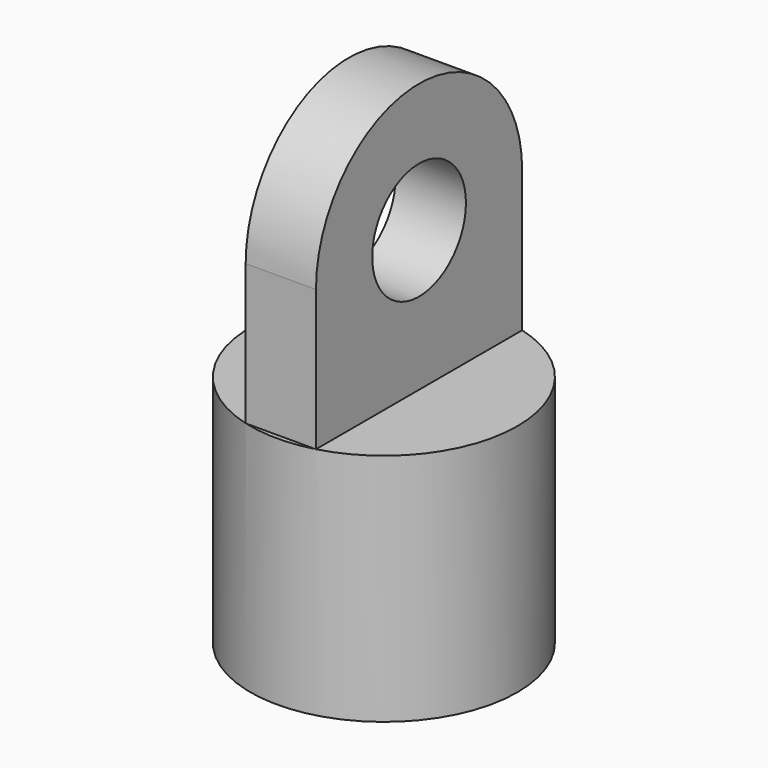
from build123d import *

# Parameters (mm, degrees)
F0_R          = 2.5
F1_DEPTH      = 1.5
F1_DEPTH_BACK = 1.5
F3_DEPTH      = 2
F2_R          = 5.7
F2_R_2        = 4.2
F4_DEPTH      = 10


with BuildPart() as f1:
    # F0 (on Right) → F1 (new body, two sides)
    with BuildSketch(Plane.YZ) as f1_sk:
        with BuildLine():
            ThreePointArc((-5.5, 0), (0, -5.5), (5.5, 0))
            ThreePointArc((5.5, 0), (0, 5.5), (-5.5, 0))
        make_face()
        Circle(F0_R, mode=Mode.SUBTRACT)
        with BuildLine():
            Line((5.5, -6), (5.5, 0))
            ThreePointArc((5.5, 0), (0, -5.5), (-5.5, 0))
            Line((-5.5, 0), (-5.5, -6))
            Line((-5.5, -6), (5.5, -6))
        make_face()
    extrude(amount=F1_DEPTH)
    extrude(f1_sk.sketch, amount=-F1_DEPTH_BACK)

    # F2 (on face) → F3 (join)
    with BuildSketch(Plane(origin=(0, 0, -6), x_dir=(1, 0, 0), z_dir=(0, 0, -1))):
        with BuildLine():
            ThreePointArc((1.5, -3.9230090492), (3.4597687784, -2.38117618), (4.2, 0))
            ThreePointArc((4.2, 0), (3.4597687784, 2.38117618), (1.5, 3.9230090492))
            Line((1.5, 3.9230090492), (1.5, -3.9230090492))
        make_face()
        with BuildLine():
            Line((1.5, -3.9230090492), (1.5, 3.9230090492))
            ThreePointArc((1.5, 3.9230090492), (0, 4.2), (-1.5, 3.9230090492))
            Line((-1.5, 3.9230090492), (-1.5, -3.9230090492))
            ThreePointArc((-1.5, -3.9230090492), (0, -4.2), (1.5, -3.9230090492))
        make_face()
        with BuildLine():
            Line((-1.5, -3.9230090492), (-1.5, 3.9230090492))
            ThreePointArc((-1.5, 3.9230090492), (-4.2, 0), (-1.5, -3.9230090492))
        make_face()
    extrude(amount=F3_DEPTH)

    # F2 (on face) → F4 (join)
    with BuildSketch(Plane(origin=(0, 0, -6), x_dir=(1, 0, 0), z_dir=(0, 0, -1))):
        Circle(F2_R)
        Circle(F2_R_2, mode=Mode.SUBTRACT)
    extrude(amount=F4_DEPTH)


solid = f1.part
